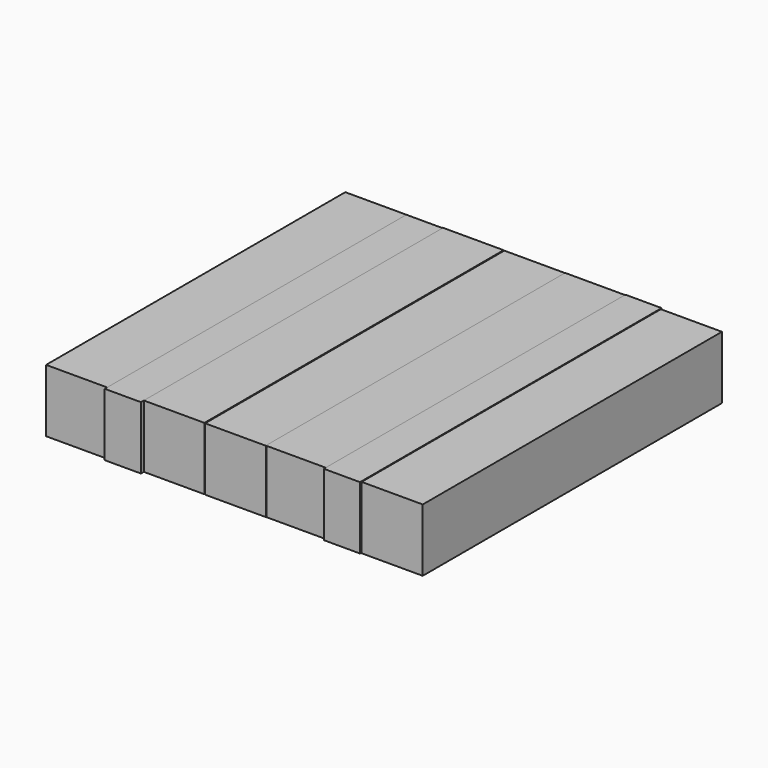
from build123d import *

# Parameters (mm, degrees)
F0_W     = 24.688802
F0_H     = 151.180804
F1_DEPTH = 25.4
F2_W     = 24.688802
F2_H     = 151.180804
F3_DEPTH = 25.4
F7_W     = 14.6304
F7_H     = 152.400002
F8_DEPTH = 25.4


with BuildPart() as f1:
    # F0 (on Top) → F1 (new body)
    with BuildSketch(Plane.XY):
        with Locations((-64.160403, -0.152402)):
            Rectangle(F0_W, F0_H)
    extrude(amount=F1_DEPTH)


with BuildPart() as f3:
    # F2 (on Top) → F3 (new body)
    with BuildSketch(Plane.XY):
        Rectangle(F2_W, F2_H)
    extrude(amount=F3_DEPTH)


with BuildPart() as f4_1:
    # F4: copy of F1
    add(f1.part.moved(Location((39.116, 0.254, 0))))


with BuildPart() as f5_1:
    # F5: copy of F1
    add(f1.part.moved(Location((88.646, 0.254, 0))))


with BuildPart() as f6_1:
    # F6: copy of F1
    add(f1.part.moved(Location((127.762, -0.254, 0))))


with BuildPart() as f8:
    # F7 (on Top) → F8 (new body)
    with BuildSketch(Plane.XY):
        with Locations((-44.500802, -0.762001)):
            Rectangle(F7_W, F7_H)
    extrude(amount=F8_DEPTH)


with BuildPart() as f9_1:
    # F9: copy of F8
    add(f8.part.moved(Location((88.138, 0.508, 0))))


solid = Compound([f1.part, f3.part, f4_1.part, f5_1.part, f6_1.part, f8.part, f9_1.part])
